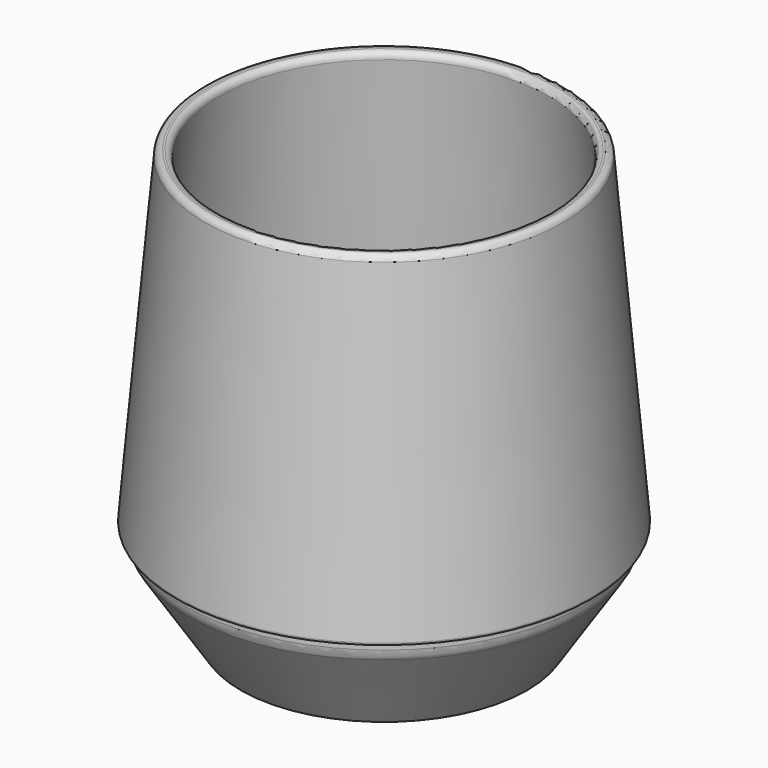
from build123d import *


with BuildPart() as f1:
    # F0 (on Front) → F1 (revolve)
    with BuildSketch(Plane.XZ):
        with BuildLine():
            Line((0, 9), (0, 6))
            Line((0, 6), (21.39345, 6))
            ThreePointArc((21.39345, 6), (23.610714, 5.370122), (25.165685, 3.668631))
            Line((25.165685, 3.668631), (27, 0))
            Line((27, 0), (30, 0))
            Line((30, 0), (41.319075, 17.365512))
            ThreePointArc((41.319075, 17.365512), (41.803868, 18.386713), (42, 19.5))
            Line((42, 19.5), (42, 20.5))
            ThreePointArc((42, 20.5), (42.146447, 20.853553), (42.5, 21))
            Line((42.5, 21), (43.001903, 21))
            ThreePointArc((43.001903, 21), (43.370541, 21.162205), (43.5, 21.543578))
            Line((43.5, 21.543578), (37.624142, 88.704947))
            ThreePointArc((37.624142, 88.704947), (37.164712, 89.587502), (36.215786, 89.886698))
            Line((36.215786, 89.886698), (35.817308, 89.851835))
            ThreePointArc((35.817308, 89.851835), (34.934753, 89.392406), (34.635557, 88.44348))
            Line((34.635557, 88.44348), (40.35841, 23.030976))
            ThreePointArc((40.35841, 23.030976), (40.248318, 21.639637), (39.690166, 20.360414))
            Line((39.690166, 20.360414), (33.533194, 10.914503))
            ThreePointArc((33.533194, 10.914503), (32.009278, 9.509388), (30, 9))
            Line((30, 9), (0, 9))
        make_face()
    revolve(axis=Axis((0, 0, 44.352473), (0, 0, 1)))


solid = f1.part
